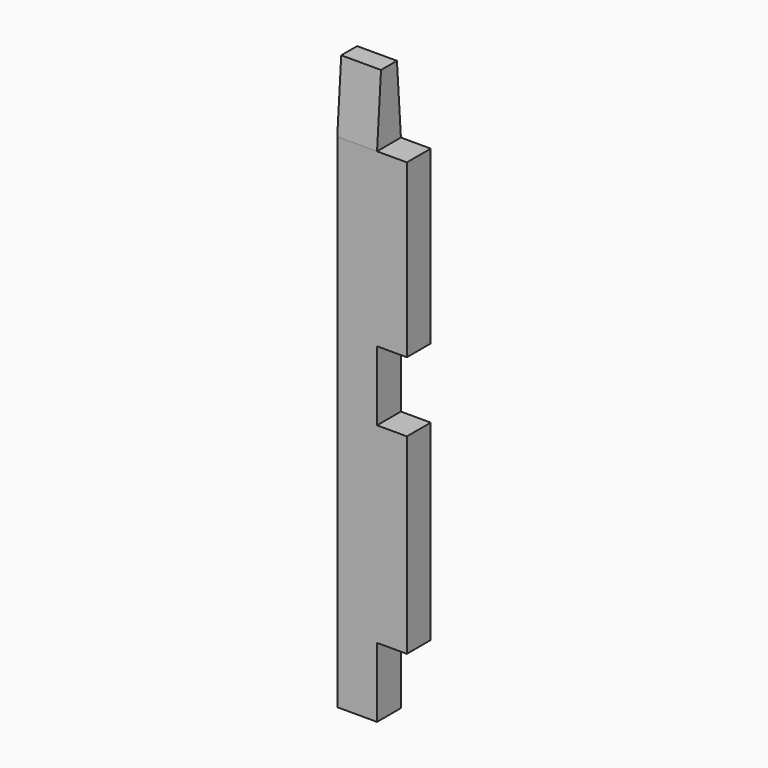
from build123d import *

# Parameters (mm, degrees)
F0_W     = 88.9
F0_H     = 38.1
F1_DEPTH = 730.25
F2_W     = 38.1
F2_H     = 88.9
F3_DEPTH = 38.101
F5_DEPTH = 50.801


with BuildPart() as f1:
    # F0 (on Top) → F1 (new body)
    with BuildSketch(Plane.XY):
        Rectangle(F0_W, F0_H)
    extrude(amount=F1_DEPTH)

    # F2 (on face) → F3 (cut, through all)
    with BuildSketch(Plane.XZ.offset(19.05)):
        with Locations((25.4, 44.45)):
            Rectangle(F2_W, F2_H)
        with Locations((25.4, 377.825)):
            Rectangle(F2_W, F2_H)
        with Locations((25.4, 685.8)):
            Rectangle(F2_W, F2_H)
    extrude(amount=-F3_DEPTH, mode=Mode.SUBTRACT)

    # F4 (on face) → F5 (cut, through all)
    with BuildSketch(Plane.YZ.offset(6.35)):
        Polygon((-12.7, 730.25), (-19.05, 730.25), (-19.05, 641.35), align=None)
        Polygon((19.05, 641.35), (19.05, 730.25), (12.7, 730.25), align=None)
    extrude(amount=-F5_DEPTH, mode=Mode.SUBTRACT)


solid = f1.part
